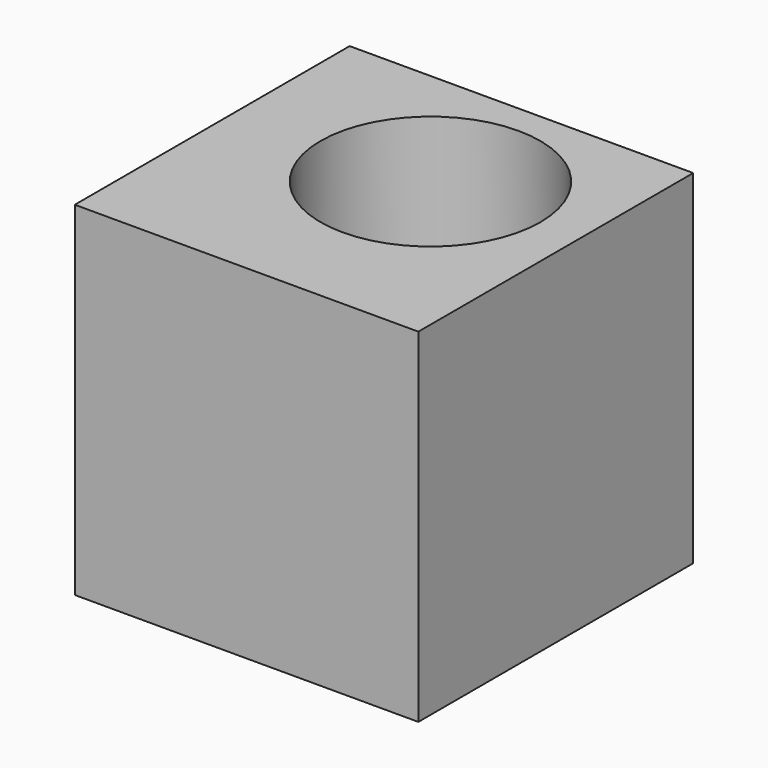
from build123d import *

# Parameters (mm, degrees)
SKETCH101_W      = 5
SKETCH101_H      = 5
EXTRUDE036_DEPTH = 5
SKETCH102_R      = 1.6
HOLE022_DEPTH    = 2.3
HOLE022_TIPS_R   = 1.6


with BuildPart() as part:
    # Sketch101 (on Face9 of Pocket017) → Extrude036 (new body)
    with BuildSketch(Plane.XZ.offset(16.37)):
        with Locations((79.700001, 18.8)):
            Rectangle(SKETCH101_W, SKETCH101_H)
    extrude(amount=EXTRUDE036_DEPTH)

    # Sketch102 (on Face1 of Extrude036) → Hole022 (cut)
    with BuildSketch(Plane.XY.offset(21.3)):
        with Locations((80.000001, -18.4)):
            Circle(SKETCH102_R)
    extrude(amount=-HOLE022_DEPTH, mode=Mode.SUBTRACT)

    # Hole022 tips → Hole022 tip 1 section 0
    with BuildSketch(Plane.XY.offset(19), mode=Mode.PRIVATE) as hole022_tip_1_s0:
        with Locations((80.000001, -18.4)):
            Circle(HOLE022_TIPS_R)
    loft([hole022_tip_1_s0.sketch, Vertex(80.000001, -18.4, 18.038623)], mode=Mode.SUBTRACT)


solid = part.part
